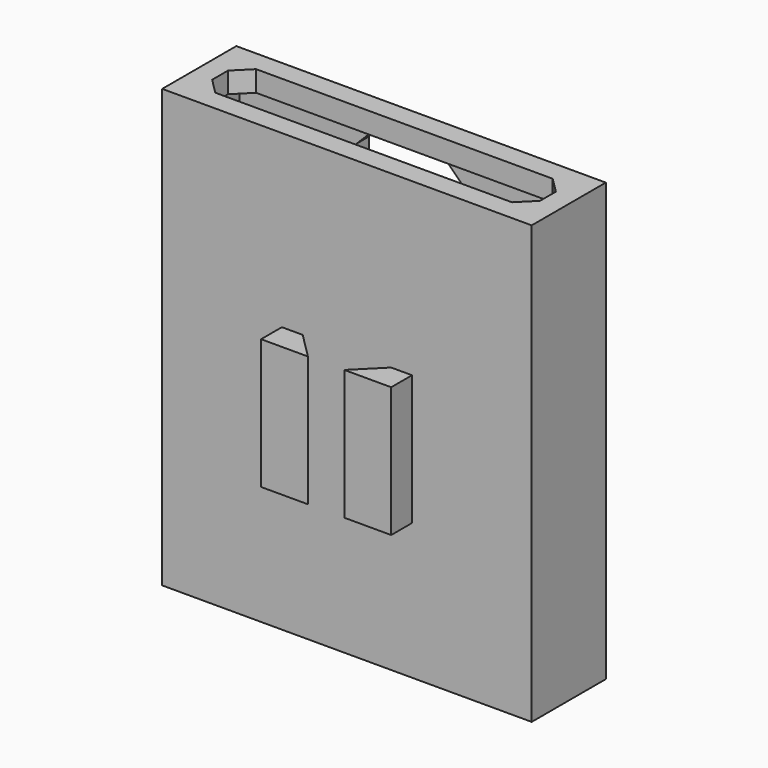
from build123d import *

# Parameters (mm, degrees)
F0_W      = 32.5
F0_H      = 3
F1_DEPTH  = 80
F3_DEPTH  = 4
F4_W      = 17.5
F4_H      = 3
F5_DEPTH  = 25
F6_SIZE   = 15
F7_SIZE   = 5
F8_W      = 62.9999996811
F8_H      = 9.7999996811
F9_DEPTH  = 4
F10_SIZE  = 3
F11_SIZE  = 5
F12_W     = 25
F12_H     = 25
F13_DEPTH = 5
F15_DEPTH = 25


with BuildPart() as f1:
    # F0 (on Top) → F1 (new body)
    with BuildSketch(Plane.XY):
        Polygon((-35.5, 0), (-32.5, 0), (-32.5, 3), (-32.5, 14.8), (-35.5, 14.8), align=None)
        Polygon((32.5, 3), (32.5, 0), (35.5, 0), (35.5, 14.8), (32.5, 14.8), align=None)
        with Locations((-16.25, 1.5)):
            Rectangle(F0_W, F0_H)
        with Locations((16.25, 1.5)):
            Rectangle(F0_W, F0_H)
        Polygon((-35.5, 14.8), (-32.5, 14.8), (-27.5, 14.8), (-27.5, 17.8), (-35.5, 17.8), align=None)
        Polygon((27.5, 14.8), (32.5, 14.8), (35.5, 14.8), (35.5, 17.8), (27.5, 17.8), align=None)
    extrude(amount=F1_DEPTH)

    # F2 (on face) → F3 (join)
    with BuildSketch(Plane.XY.offset(80)):
        Polygon((27.5, 17.8), (-27.5, 17.8), (-27.5, 14.8), (-32.5, 14.8), (-32.5, 3), (32.5, 3), (32.5, 14.8), (27.5, 14.8), align=None)
        Polygon((-27.5, 17.8), (-35.5, 17.8), (-35.5, 0), (35.5, 0), (35.5, 17.8), (27.5, 17.8), (27.5, 14.8), (32.5, 14.8), (32.5, 3), (-32.5, 3), (-32.5, 14.8), (-27.5, 14.8), align=None)
    extrude(amount=F3_DEPTH)

    # F4 (on face) → F5 (join)
    with BuildSketch(Plane(origin=(0, 0, 80), x_dir=(1, 0, 0), z_dir=(0, 0, -1))):
        with Locations((-18.75, -16.3)):
            Rectangle(F4_W, F4_H)
        with Locations((18.75, -16.3)):
            Rectangle(F4_W, F4_H)
    extrude(amount=F5_DEPTH)

    # F6
    f6_edges = [f1.edges().sort_by_distance(p)[0] for p in [
        (-10, 16.3, 55),
        (10, 16.3, 55),
    ]]
    chamfer(f6_edges, length=F6_SIZE)

    # F7
    f7_edges = [f1.edges().sort_by_distance(p)[0] for p in [
        (-10, 16.3, 70),
        (10, 16.3, 70),
    ]]
    chamfer(f7_edges, length=F7_SIZE)

    # F8 (on face) → F9 (cut)
    with BuildSketch(Plane.XY.offset(84)):
        with Locations((0, 8.9)):
            Rectangle(F8_W, F8_H)
    extrude(amount=-F9_DEPTH, mode=Mode.SUBTRACT)

    # F10
    f10_edges = [f1.edges().sort_by_distance(p)[0] for p in [
        (-31.5, 13.8, 82),
        (-31.5, 4, 82),
        (31.5, 4, 82),
        (31.5, 13.8, 82),
        (10, 16.3, 80),
        (-10, 16.3, 80),
    ]]
    chamfer(f10_edges, length=F10_SIZE)

    # F11
    f11_edges = [f1.edges().sort_by_distance(p)[0] for p in [
        (-27.5, 16.3, 0),
        (27.5, 16.3, 0),
    ]]
    chamfer(f11_edges, length=F11_SIZE)

    # F12 (on face) → F13 (join)
    with BuildSketch(Plane.XZ):
        with Locations((0, 38.6652871966)):
            Rectangle(F12_W, F12_H)
    extrude(amount=F13_DEPTH)

    # F14 (on face) → F15 (cut)
    with BuildSketch(Plane.XY.offset(51.1652871966)):
        Polygon((8.5, 0), (-8.5, 0), (-3.5, -5), (3.5, -5), align=None)
    extrude(amount=-F15_DEPTH, mode=Mode.SUBTRACT)


solid = f1.part
